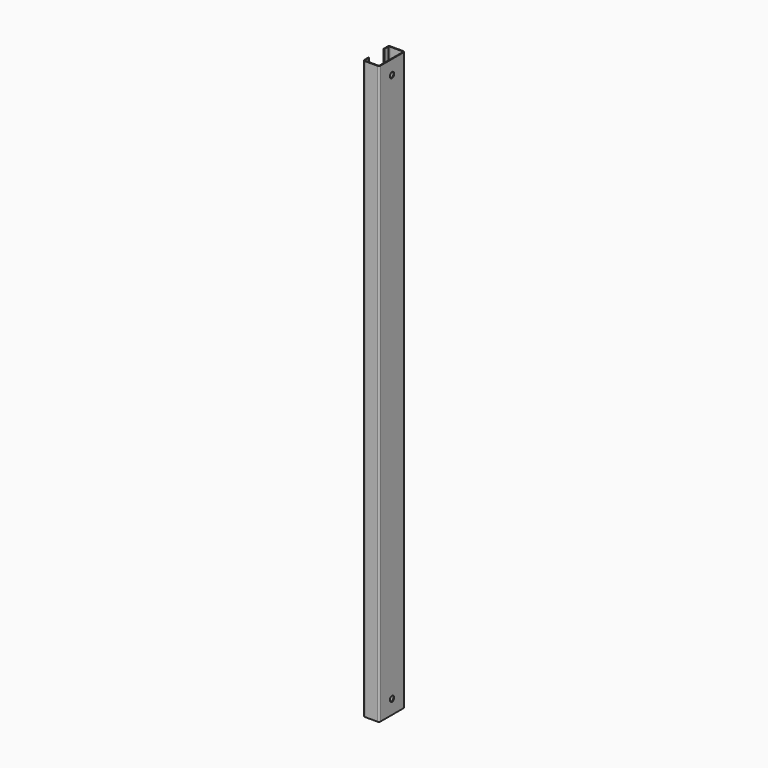
from build123d import *

# Parameters (mm, degrees)
F2_DEPTH = 900
F3_R     = 4.25
F4_DEPTH = 1.2000000005


with BuildPart() as f2:
    # F0 (on Top) → F2 (new body)
    with BuildSketch(Plane.XY):
        with BuildLine():
            ThreePointArc((12.5006749989, 22.499625), (11.7684949852, 24.2674139192), (10.00075, 24.9996999989))
            Line((10.00075, 24.9997), (-9.99925, 25.000299))
            ThreePointArc((-9.99925, 25.0002989989), (-11.7670389192, 24.2681189852), (-12.4993249989, 22.500374))
            Line((-12.499325, 22.500374), (-12.49955, 15.000374))
            Line((-12.49955, 15.000374), (-11.29955, 15.000338))
            Line((-11.29955, 15.000338), (-11.299325, 22.500338))
            ThreePointArc((-11.2993249994, 22.500338), (-10.918536238, 23.4195653923), (-9.999286, 23.8002989994))
            Line((-9.999286, 23.800299), (10.000714, 23.7997))
            ThreePointArc((10.000714, 23.7996999994), (10.9199413923, 23.418911238), (11.3006749994, 22.499661))
            Line((11.300675, 22.499661), (11.299326, -22.500339))
            ThreePointArc((11.2993259994, -22.500339), (10.918537238, -23.4195663923), (9.999287, -23.8002999994))
            Line((9.999287, -23.8003), (-10.000713, -23.799701))
            ThreePointArc((-10.000713, -23.7997009994), (-10.9199403923, -23.418912238), (-11.3006739994, -22.499662))
            Line((-11.300674, -22.499662), (-11.30045, -14.999662))
            Line((-11.30045, -14.999662), (-12.50045, -14.999626))
            Line((-12.50045, -14.999626), (-12.500674, -22.499626))
            ThreePointArc((-12.5006739989, -22.499626), (-11.7684939852, -24.2674149192), (-10.000749, -24.9997009989))
            Line((-10.000749, -24.999701), (9.999251, -25.0003))
            ThreePointArc((9.999251, -25.0002999989), (11.7670399192, -24.2681199852), (12.4993259989, -22.500375))
            Line((12.499326, -22.500375), (12.500675, 22.499625))
        make_face()
    extrude(amount=F2_DEPTH)

    # F3 (on face) → F4 (cut, through all)
    with BuildSketch(Plane(origin=(12.5000005, -0.0003747222, 0), x_dir=(2.99778e-05, 0.9999999996, 0), z_dir=(0.9999999996, -2.99778e-05, 0))):
        with Locations((0, 22)):
            Circle(F3_R)
        with Locations((0, 878)):
            Circle(F3_R)
    extrude(amount=-F4_DEPTH, mode=Mode.SUBTRACT)


solid = f2.part
